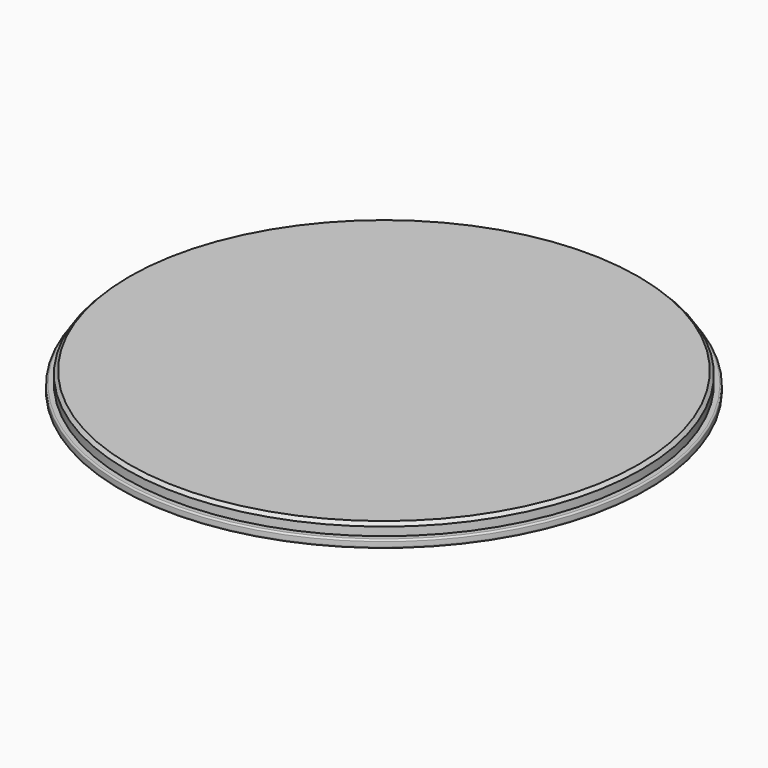
from build123d import *


with BuildPart() as f1:
    # F0 (on Front) → F1 (revolve)
    with BuildSketch(Plane.XZ):
        with BuildLine():
            Line((-163.6, 0), (0, 0))
            Line((0, 0), (0, 1))
            Line((0, 1), (-164.014214, 1))
            Line((-164.014214, 1), (-166.1, -1.085786))
            Line((-166.1, -1.085786), (-166.1, -6.5))
            Line((-166.1, -6.5), (-169.1, -6.5))
            ThreePointArc((-169.1, -6.5), (-169.807107, -6.792893), (-170.1, -7.5))
            Line((-170.1, -7.5), (-170.1, -10.5))
            ThreePointArc((-170.1, -10.5), (-169.807107, -11.207107), (-169.1, -11.5))
            Line((-169.1, -11.5), (-166.1, -11.5))
            ThreePointArc((-166.1, -11.5), (-165.392893, -11.207107), (-165.1, -10.5))
            Line((-165.1, -10.5), (-165.1, -1.5))
            Line((-165.1, -1.5), (-163.6, 0))
        make_face()
    revolve(axis=Axis((0, 0, 0.5), (0, 0, -1)))


solid = f1.part
